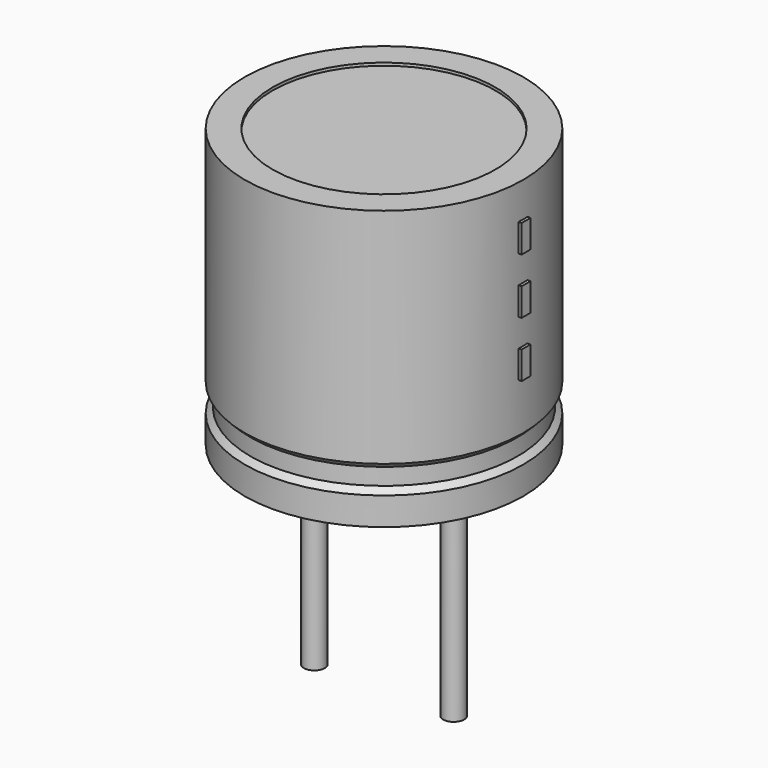
from build123d import *

# Parameters (mm, degrees)
SKETCH002_W  = 1.84
SKETCH002_H  = 3.92
SKETCH003_R  = 0.15
PAD_DEPTH    = 3.4
SKETCH004_W  = 0.16
SKETCH004_H  = 0.4
PAD001_DEPTH = 2.04


with BuildPart() as revolution:
    # Sketch → Revolution (revolve)
    with BuildSketch(Plane.XZ):
        Polygon((-1, 0.1), (-1, 0.5), (-0.92, 0.58), (-0.92, 0.82), (-1, 0.9), (-1, 4.1), (-0.6, 4.1), (-0.6, 0.1), align=None)
    revolve(axis=Axis((1, 0, 7.548619), (0, 0, -1)))


with BuildPart() as revolution001:
    # Sketch002 → Revolution001 (revolve)
    with BuildSketch(Plane.XZ):
        with Locations((0.08, 2.1)):
            Rectangle(SKETCH002_W, SKETCH002_H)
    revolve(axis=Axis((1, 0, 4.680116), (0, 0, -1)))


with BuildPart() as pad:
    # Sketch003 → Pad (new body)
    with BuildSketch(Plane.XY.offset(0.4)):
        Circle(SKETCH003_R)
        with Locations((2, 0)):
            Circle(SKETCH003_R)
    extrude(amount=-PAD_DEPTH)


with BuildPart() as pad001:
    # Sketch004 → Pad001 (new body)
    with BuildSketch(Plane.YZ.offset(1)):
        with Locations((0, 1.8)):
            Rectangle(SKETCH004_W, SKETCH004_H)
        with Locations((0, 2.6)):
            Rectangle(SKETCH004_W, SKETCH004_H)
        with Locations((0, 3.4)):
            Rectangle(SKETCH004_W, SKETCH004_H)
    extrude(amount=PAD001_DEPTH)


solid = Compound([revolution.part, revolution001.part, pad.part, pad001.part])
